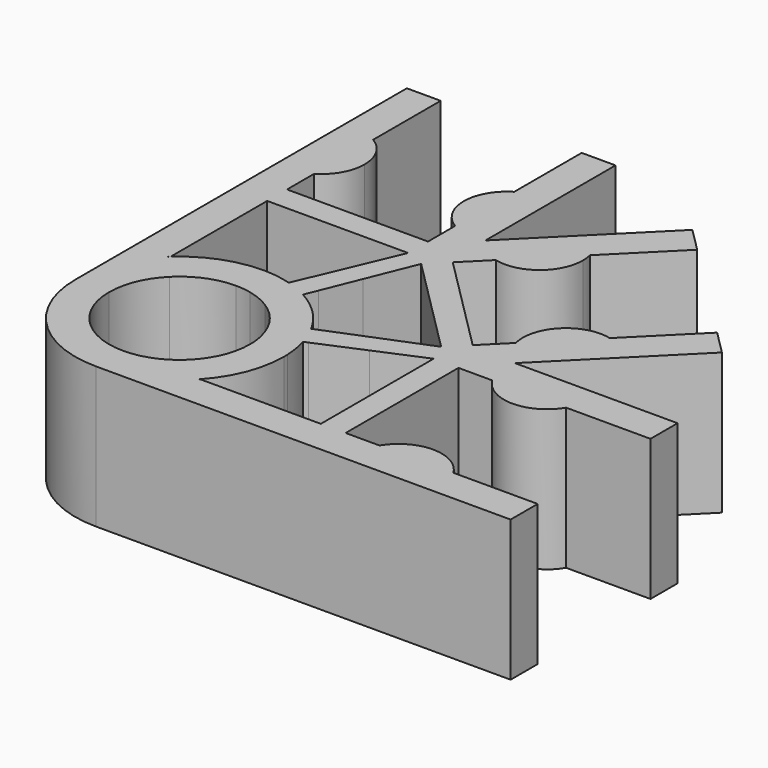
from build123d import *

# Parameters (mm, degrees)
F0_W     = 1.524
F0_H     = 4.2037
F0_W_2   = 4.2037
F0_H_2   = 1.524
F1_DEPTH = 6.35


with BuildPart() as f1:
    # F0 (on Top) → F1 (new body)
    with BuildSketch(Plane.XY):
        with BuildLine():
            Line((-3.175, -18.669), (-3.175, -15.204901849))
            ThreePointArc((-3.175, -15.204901849), (-3.2496165995, -15.2748001007), (-3.3226947648, -15.3463052352))
            ThreePointArc((-3.3226947648, -15.3463052352), (-4.3413099233, -16.8707705513), (-4.699, -18.669))
            ThreePointArc((-4.699, -18.669), (-3.3226947563, -21.9916947733), (2.39e-08, -23.368))
            ThreePointArc((2.39e-08, -23.368), (1.7982294597, -23.0103099187), (3.3226947648, -21.9916947648))
            ThreePointArc((3.3226947648, -21.9916947648), (3.3941998993, -21.9186165995), (3.464098151, -21.844))
            Line((3.464098151, -21.844), (0, -21.844))
            ThreePointArc((0, -21.844), (-2.2450640303, -20.9140640303), (-3.175, -18.669))
        make_face()
        with BuildLine():
            ThreePointArc((0.204423263, -13.9744486764), (0.1022358318, -13.9711123008), (0, -13.97))
            ThreePointArc((0, -13.97), (-1.7033501972, -14.2895937496), (-3.175, -15.204901849))
            Line((-3.175, -15.204901849), (-3.175, -18.669))
            ThreePointArc((-3.175, -18.669), (-2.9333175157, -17.4539801022), (-2.2450640303, -16.4239359697))
            Line((-2.2450640303, -16.4239359697), (0.204423263, -13.9744486764))
        make_face()
        with BuildLine():
            ThreePointArc((1.3099975978, -14.1562949028), (0.7626497547, -14.0323022148), (0.204423263, -13.9744486764))
            Line((0.204423263, -13.9744486764), (-2.2450640303, -16.4239359697))
            ThreePointArc((-2.2450640303, -16.4239359697), (-1.2150198978, -15.7356824843), (0, -15.494))
            Line((0, -15.494), (0.7417000769, -15.494))
            Line((0.7417000769, -15.494), (1.3099975978, -14.1562949028))
        make_face()
        with BuildLine():
            Line((0.7077600368, -15.5738908371), (0.7417000769, -15.494))
            Line((0.7417000769, -15.494), (0, -15.494))
            ThreePointArc((0, -15.494), (0.3561273703, -15.5140359279), (0.7077600368, -15.5738908371))
        make_face()
        with BuildLine():
            Line((1.8842833415, -15.494), (0.7417000769, -15.494))
            Line((0.7417000769, -15.494), (0.7077600368, -15.5738908371))
            ThreePointArc((0.7077600368, -15.5738908371), (1.2150198978, -15.7356824843), (1.6881107561, -15.9799654009))
            Line((1.6881107561, -15.9799654009), (1.8842833415, -15.494))
        make_face()
        with BuildLine():
            ThreePointArc((2.264656191, -14.5517274396), (1.7982294487, -14.3276900767), (1.3099975978, -14.1562949028))
            Line((1.3099975978, -14.1562949028), (0.7417000769, -15.494))
            Line((0.7417000769, -15.494), (1.8842833415, -15.494))
            Line((1.8842833415, -15.494), (2.264656191, -14.5517274396))
        make_face()
        with BuildLine():
            Line((3.175, -15.494), (3.175, -15.204901849))
            ThreePointArc((3.175, -15.204901849), (2.739365633, -14.8510847405), (2.264656191, -14.5517274396))
            Line((2.264656191, -14.5517274396), (1.8842833415, -15.494))
            Line((1.8842833415, -15.494), (3.175, -15.494))
        make_face()
        with BuildLine():
            Line((3.175, -16.7847166585), (3.175, -15.494))
            Line((3.175, -15.494), (1.8842833415, -15.494))
            Line((1.8842833415, -15.494), (1.6881107561, -15.9799654009))
            ThreePointArc((1.6881107561, -15.9799654009), (2.2450640303, -16.4239359697), (2.6890345991, -16.9808892439))
            Line((2.6890345991, -16.9808892439), (3.175, -16.7847166585))
        make_face()
        with BuildLine():
            ThreePointArc((4.1172725604, -16.404343809), (3.8179152595, -15.929634367), (3.464098151, -15.494))
            Line((3.464098151, -15.494), (3.175, -15.494))
            Line((3.175, -15.494), (3.175, -16.7847166585))
            Line((3.175, -16.7847166585), (4.1172725604, -16.404343809))
        make_face()
        with BuildLine():
            Line((3.175, -17.9272999231), (3.175, -16.7847166585))
            Line((3.175, -16.7847166585), (2.6890345991, -16.9808892439))
            ThreePointArc((2.6890345991, -16.9808892439), (2.9333175157, -17.4539801022), (3.0951091629, -17.9612399632))
            Line((3.0951091629, -17.9612399632), (3.175, -17.9272999231))
        make_face()
        with BuildLine():
            ThreePointArc((4.5127050972, -17.3590024022), (4.3413099233, -16.8707705513), (4.1172725604, -16.404343809))
            Line((4.1172725604, -16.404343809), (3.175, -16.7847166585))
            Line((3.175, -16.7847166585), (3.175, -17.9272999231))
            Line((3.175, -17.9272999231), (4.5127050972, -17.3590024022))
        make_face()
        with BuildLine():
            ThreePointArc((3.464098151, -15.494), (3.3226947648, -15.3463052352), (3.175, -15.204901849))
            Line((3.175, -15.204901849), (3.175, -15.494))
            Line((3.175, -15.494), (3.464098151, -15.494))
        make_face()
        with BuildLine():
            ThreePointArc((3.175, -18.669), (2.9333175157, -19.8840198978), (2.2450640303, -20.9140640303))
            Line((2.2450640303, -20.9140640303), (4.6945513236, -18.464576737))
            ThreePointArc((4.6945513236, -18.464576737), (4.6366977852, -17.9063502453), (4.5127050972, -17.3590024022))
            Line((4.5127050972, -17.3590024022), (3.175, -17.9272999231))
            Line((3.175, -17.9272999231), (3.175, -18.669))
        make_face()
        with BuildLine():
            ThreePointArc((3.0951091629, -17.9612399632), (3.1549640721, -18.3128726297), (3.175, -18.669))
            Line((3.175, -18.669), (3.175, -17.9272999231))
            Line((3.175, -17.9272999231), (3.0951091629, -17.9612399632))
        make_face()
        with BuildLine():
            ThreePointArc((2.2450640303, -20.9140640303), (1.2150198978, -21.6023175157), (0, -21.844))
            Line((0, -21.844), (3.464098151, -21.844))
            ThreePointArc((3.464098151, -21.844), (4.3794062504, -20.3723501972), (4.699, -18.669))
            ThreePointArc((4.699, -18.669), (4.6978876992, -18.5667641682), (4.6945513236, -18.464576737))
            Line((4.6945513236, -18.464576737), (2.2450640303, -20.9140640303))
        make_face()
        with BuildLine():
            Line((-3.3226947648, -15.3463052352), (-4.699, -16.7226104704))
            Line((-4.699, -16.7226104704), (-4.699, -18.669))
            ThreePointArc((-4.699, -18.669), (-4.3413099233, -16.8707705513), (-3.3226947648, -15.3463052352))
        make_face()
        Polygon((-3.175, -15.1986104704), (-3.175, -13.97), (-4.699, -13.97), (-4.699, -16.7226104704), (-3.3226947648, -15.3463052352), align=None)
        with Locations((-3.937, -11.86815)):
            Rectangle(F0_W, F0_H)
        with BuildLine():
            Line((-3.175, -8.6487), (-3.175, -7.1247))
            ThreePointArc((-3.175, -7.1247), (-3.9155835913, -7.3857334796), (-4.699, -7.3322426969))
            Line((-4.699, -7.3322426969), (-4.699, -9.7663))
            Line((-4.699, -9.7663), (-3.175, -9.7663))
            Line((-3.175, -9.7663), (-3.175, -8.6487))
        make_face()
        with BuildLine():
            Line((-3.175, -7.1247), (-3.175, -3.7973))
            ThreePointArc((-3.175, -3.7973), (-3.9155835913, -3.5362665204), (-4.699, -3.5897573031))
            Line((-4.699, -3.5897573031), (-4.699, -7.3322426969))
            ThreePointArc((-4.699, -7.3322426969), (-3.9155835913, -7.3857334796), (-3.175, -7.1247))
        make_face()
        with BuildLine():
            Line((-3.175, -3.7973), (-3.175, 0))
            Line((-3.175, 0), (-4.699, 0))
            Line((-4.699, 0), (-4.699, -3.5897573031))
            ThreePointArc((-4.699, -3.5897573031), (-3.9155835913, -3.5362665204), (-3.175, -3.7973))
        make_face()
        with BuildLine():
            ThreePointArc((-2.2352, -5.461), (-2.4863911938, -4.5056045675), (-3.175, -3.7973))
            Line((-3.175, -3.7973), (-3.175, -7.1247))
            ThreePointArc((-3.175, -7.1247), (-2.4863911938, -6.4163954325), (-2.2352, -5.461))
        make_face()
        with BuildLine():
            Line((4.699, 0), (3.175, 0))
            Line((3.175, 0), (3.175, -3.7973))
            ThreePointArc((3.175, -3.7973), (3.9155835913, -3.5362665204), (4.699, -3.5897573031))
            Line((4.699, -3.5897573031), (4.699, 0))
        make_face()
        with BuildLine():
            ThreePointArc((4.699, -3.5897573031), (3.9155835913, -3.5362665204), (3.175, -3.7973))
            Line((3.175, -3.7973), (3.175, -7.1247))
            ThreePointArc((3.175, -7.1247), (3.9101706223, -7.3849885703), (4.6884647047, -7.3351457657))
            Line((4.6884647047, -7.3351457657), (4.6936032009, -7.3300072695))
            ThreePointArc((4.6936032009, -7.3300072695), (4.4428952043, -6.3699901333), (4.699, -5.4113985962))
            Line((4.699, -5.4113985962), (4.699, -3.5897573031))
        make_face()
        with BuildLine():
            Line((3.175, -7.1247), (3.175, -3.7973))
            ThreePointArc((3.175, -3.7973), (2.4863911937, -4.5056045676), (2.2352, -5.4610000002))
            ThreePointArc((2.2352, -5.4610000002), (2.4863911938, -6.4163954326), (3.175, -7.1247))
        make_face()
        with BuildLine():
            Line((4.699, -7.3246104704), (4.699, -5.4113985962))
            ThreePointArc((4.699, -5.4113985962), (4.4428952043, -6.3699901333), (4.6936032009, -7.3300072695))
            Line((4.6936032009, -7.3300072695), (4.699, -7.3246104704))
        make_face()
        with BuildLine():
            ThreePointArc((4.6884647047, -7.3351457657), (3.9101706223, -7.3849885703), (3.175, -7.1247))
            Line((3.175, -7.1247), (3.175, -8.6487))
            Line((3.175, -8.6487), (3.175, -8.8486104704))
            Line((3.175, -8.8486104704), (4.6884647047, -7.3351457657))
        make_face()
        Polygon((3.6876190817, -9.7663), (3.175, -9.2536809183), (3.175, -9.7663), align=None)
        Polygon((3.6876190817, -9.7663), (3.175, -9.7663), (3.175, -11.0038719395), (4.0500955106, -10.1287764289), align=None)
        Polygon((4.0500955106, -10.1287764289), (3.175, -11.0038719395), (3.175, -12.2965927924), align=None)
        with BuildLine():
            Line((9.8782817332, -2.1453287372), (7.3399400013, -4.6836704691))
            ThreePointArc((7.3399400013, -4.6836704691), (7.9317227516, -5.199805829), (8.2708158875, -5.908056052))
            Line((8.2708158875, -5.908056052), (10.9559124677, -3.2229594718))
            Line((10.9559124677, -3.2229594718), (9.8782817332, -2.1453287372))
        make_face()
        with BuildLine():
            ThreePointArc((8.2708158875, -5.908056052), (7.9317227516, -5.199805829), (7.3399400013, -4.6836704691))
            Line((7.3399400013, -4.6836704691), (6.0518450901, -5.9717653803))
            ThreePointArc((6.0518450901, -5.9717653803), (5.5551119515, -6.8306853943), (4.699, -7.3322426969))
            Line((4.699, -7.3322426969), (4.699, -7.339509628))
            ThreePointArc((4.699, -7.339509628), (5.2140928383, -7.9250908364), (5.9179887838, -8.2608831557))
            Line((5.9179887838, -8.2608831557), (8.2708158875, -5.908056052))
        make_face()
        with BuildLine():
            ThreePointArc((8.3278861682, -6.3754541121), (8.3135658123, -6.1400194271), (8.2708158875, -5.908056052))
            Line((8.2708158875, -5.908056052), (5.9179887838, -8.2608831557))
            ThreePointArc((5.9179887838, -8.2608831557), (7.5823378055, -7.9053599983), (8.3278861682, -6.3754541121))
        make_face()
        with BuildLine():
            Line((16.5236712628, -8.7907182668), (15.4460405282, -7.7130875323))
            Line((15.4460405282, -7.7130875323), (12.760943948, -10.3981841125))
            ThreePointArc((12.760943948, -10.3981841125), (13.469194171, -10.7372772484), (13.9853295309, -11.3290599987))
            Line((13.9853295309, -11.3290599987), (16.5236712628, -8.7907182668))
        make_face()
        with BuildLine():
            ThreePointArc((13.9853295309, -11.3290599987), (13.469194171, -10.7372772484), (12.760943948, -10.3981841125))
            Line((12.760943948, -10.3981841125), (10.4081168443, -12.7510112162))
            ThreePointArc((10.4081168443, -12.7510112162), (10.7439091636, -13.4549071617), (11.329490372, -13.97))
            Line((11.329490372, -13.97), (11.3367573031, -13.97))
            ThreePointArc((11.3367573031, -13.97), (11.8383146057, -13.1138880485), (12.6972346197, -12.6171549099))
            Line((12.6972346197, -12.6171549099), (13.9853295309, -11.3290599987))
        make_face()
        with BuildLine():
            Line((10.4081168443, -12.7510112162), (12.760943948, -10.3981841125))
            ThreePointArc((12.760943948, -10.3981841125), (10.9199914432, -10.9100587114), (10.4081168443, -12.7510112162))
        make_face()
        with BuildLine():
            ThreePointArc((5.9179887838, -8.2608831557), (5.2140928383, -7.9250908364), (4.699, -7.339509628))
            Line((4.699, -7.339509628), (4.699, -9.4798719395))
            Line((4.699, -9.4798719395), (4.8403580493, -9.3385138902))
            Line((4.8403580493, -9.3385138902), (5.9179887838, -8.2608831557))
        make_face()
        with BuildLine():
            Line((6.0518450901, -5.9717653803), (4.699, -7.3246104704))
            Line((4.699, -7.3246104704), (4.699, -7.3322426969))
            ThreePointArc((4.699, -7.3322426969), (5.5551119515, -6.8306853943), (6.0518450901, -5.9717653803))
        make_face()
        with BuildLine():
            Line((11.3443895296, -13.97), (12.6972346197, -12.6171549099))
            ThreePointArc((12.6972346197, -12.6171549099), (11.8383146057, -13.1138880485), (11.3367573031, -13.97))
            Line((11.3367573031, -13.97), (11.3443895296, -13.97))
        make_face()
        with BuildLine():
            Line((14.8717, -15.494), (11.5443, -15.494))
            ThreePointArc((11.5443, -15.494), (13.208, -16.4338), (14.8717, -15.494))
        make_face()
        with BuildLine():
            ThreePointArc((13.2576014038, -13.97), (12.2990098667, -14.2261047957), (11.3389927305, -13.9753967991))
            Line((11.3389927305, -13.9753967991), (11.3338542343, -13.9805352953))
            ThreePointArc((11.3338542343, -13.9805352953), (11.2840114297, -14.7588293777), (11.5443, -15.494))
            Line((11.5443, -15.494), (14.8717, -15.494))
            ThreePointArc((14.8717, -15.494), (15.0795020373, -15.0116695348), (15.1504993243, -14.4913006757))
            ThreePointArc((15.1504993243, -14.4913006757), (15.1326027251, -14.2282265885), (15.0792426969, -13.97))
            Line((15.0792426969, -13.97), (13.2576014038, -13.97))
        make_face()
        with BuildLine():
            Line((18.669, -13.97), (15.0792426969, -13.97))
            ThreePointArc((15.0792426969, -13.97), (15.1326027251, -14.2282265885), (15.1504993243, -14.4913006757))
            ThreePointArc((15.1504993243, -14.4913006757), (15.0795020373, -15.0116695348), (14.8717, -15.494))
            Line((14.8717, -15.494), (18.669, -15.494))
            Line((18.669, -15.494), (18.669, -13.97))
        make_face()
        with BuildLine():
            ThreePointArc((11.5443, -15.494), (11.2840114297, -14.7588293777), (11.3338542343, -13.9805352953))
            Line((11.3338542343, -13.9805352953), (9.8203895296, -15.494))
            Line((9.8203895296, -15.494), (10.0203, -15.494))
            Line((10.0203, -15.494), (11.5443, -15.494))
        make_face()
        with BuildLine():
            ThreePointArc((14.8717, -21.844), (13.208, -20.9042), (11.5443, -21.844))
            Line((11.5443, -21.844), (14.8717, -21.844))
        make_face()
        with BuildLine():
            Line((8.9027, -21.844), (8.9027, -23.368))
            Line((8.9027, -23.368), (11.3367573031, -23.368))
            ThreePointArc((11.3367573031, -23.368), (11.2832665204, -22.5845835913), (11.5443, -21.844))
            Line((11.5443, -21.844), (10.0203, -21.844))
            Line((10.0203, -21.844), (8.9027, -21.844))
        make_face()
        with BuildLine():
            ThreePointArc((11.5443, -21.844), (11.2832665204, -22.5845835913), (11.3367573031, -23.368))
            Line((11.3367573031, -23.368), (15.0792426969, -23.368))
            ThreePointArc((15.0792426969, -23.368), (15.1326027251, -23.1097734115), (15.1504993243, -22.8466993243))
            ThreePointArc((15.1504993243, -22.8466993243), (15.0795020373, -22.3263304652), (14.8717, -21.844))
            Line((14.8717, -21.844), (11.5443, -21.844))
        make_face()
        with BuildLine():
            ThreePointArc((15.1504993243, -22.8466993243), (15.1326027251, -23.1097734115), (15.0792426969, -23.368))
            Line((15.0792426969, -23.368), (18.669, -23.368))
            Line((18.669, -23.368), (18.669, -21.844))
            Line((18.669, -21.844), (14.8717, -21.844))
            ThreePointArc((14.8717, -21.844), (15.0795020373, -22.3263304652), (15.1504993243, -22.8466993243))
        make_face()
        with BuildLine():
            ThreePointArc((3.3226947648, -21.9916947648), (1.7982294597, -23.0103099187), (2.39e-08, -23.368))
            Line((2.39e-08, -23.368), (1.9463895296, -23.368))
            Line((1.9463895296, -23.368), (3.3226947648, -21.9916947648))
        make_face()
        Polygon((3.3226947648, -21.9916947648), (1.9463895296, -23.368), (4.699, -23.368), (4.699, -21.844), (3.4703895296, -21.844), align=None)
        with Locations((6.80085, -22.606)):
            Rectangle(F0_W_2, F0_H_2)
        with BuildLine():
            ThreePointArc((4.6954279578, -7.3332341432), (4.6919472195, -7.3341931901), (4.6884647047, -7.3351457657))
            Line((4.6884647047, -7.3351457657), (3.175, -8.8486104704))
            Line((3.175, -8.8486104704), (3.175, -9.2536809183))
            Line((3.175, -9.2536809183), (3.6876190817, -9.7663))
            Line((3.6876190817, -9.7663), (4.4125719395, -9.7663))
            Line((4.4125719395, -9.7663), (4.699, -9.4798719395))
            Line((4.699, -9.4798719395), (4.699, -7.339509628))
            ThreePointArc((4.699, -7.339509628), (4.6972110629, -7.3363735454), (4.6954279578, -7.3332341432))
        make_face()
        Polygon((4.4125719395, -9.7663), (3.6876190817, -9.7663), (4.0500955106, -10.1287764289), align=None)
        Polygon((3.175, -11.0038719395), (3.175, -9.7663), (2.2609083187, -11.9179636207), align=None)
        Polygon((3.175, -12.2965927924), (3.175, -11.0038719395), (2.2609083187, -11.9179636207), (1.3891412982, -13.97), (2.4994856163, -13.97), align=None)
        with BuildLine():
            Line((2.4994856163, -13.97), (1.3891412982, -13.97))
            Line((1.3891412982, -13.97), (1.3099975978, -14.1562949028))
            ThreePointArc((1.3099975978, -14.1562949028), (1.7982294487, -14.3276900767), (2.264656191, -14.5517274396))
            Line((2.264656191, -14.5517274396), (2.4994856163, -13.97))
        make_face()
        with BuildLine():
            Line((10.4081168443, -12.7510112162), (9.3304861098, -13.8286419507))
            Line((9.3304861098, -13.8286419507), (9.1891280605, -13.97))
            Line((9.1891280605, -13.97), (11.329490372, -13.97))
            ThreePointArc((11.329490372, -13.97), (10.7439091636, -13.4549071617), (10.4081168443, -12.7510112162))
        make_face()
        with BuildLine():
            Line((11.329490372, -13.97), (9.1891280605, -13.97))
            Line((9.1891280605, -13.97), (8.9027, -14.2564280605))
            Line((8.9027, -14.2564280605), (8.9027, -14.9813809183))
            Line((8.9027, -14.9813809183), (9.4153190817, -15.494))
            Line((9.4153190817, -15.494), (9.8203895296, -15.494))
            Line((9.8203895296, -15.494), (11.3338542343, -13.9805352953))
            ThreePointArc((11.3338542343, -13.9805352953), (11.3348068099, -13.9770527805), (11.3357658568, -13.9735720422))
            ThreePointArc((11.3357658568, -13.9735720422), (11.3326264546, -13.9717889371), (11.329490372, -13.97))
        make_face()
        with BuildLine():
            Line((13.2576014038, -13.97), (11.3443895296, -13.97))
            Line((11.3443895296, -13.97), (11.3389927305, -13.9753967991))
            ThreePointArc((11.3389927305, -13.9753967991), (12.2990098667, -14.2261047957), (13.2576014038, -13.97))
        make_face()
        Polygon((9.4153190817, -15.494), (8.9027, -14.9813809183), (8.9027, -15.494), align=None)
        Polygon((8.9027, -14.2564280605), (8.5402235711, -14.6189044894), (8.9027, -14.9813809183), align=None)
        Polygon((8.9027, -14.9813809183), (8.5402235711, -14.6189044894), (7.6651280605, -15.494), (8.9027, -15.494), align=None)
        Polygon((7.6651280605, -15.494), (8.5402235711, -14.6189044894), (6.3724072076, -15.494), align=None)
        Polygon((8.9027, -15.494), (7.6651280605, -15.494), (6.7510363793, -16.4080916813), align=None)
        Polygon((6.3724072076, -15.494), (4.699, -16.1695143837), (4.699, -17.2798587018), (6.7510363793, -16.4080916813), (7.6651280605, -15.494), align=None)
        with BuildLine():
            Line((4.699, -17.2798587018), (4.699, -16.1695143837))
            Line((4.699, -16.1695143837), (4.1172725604, -16.404343809))
            ThreePointArc((4.1172725604, -16.404343809), (4.3413099233, -16.8707705513), (4.5127050972, -17.3590024022))
            Line((4.5127050972, -17.3590024022), (4.699, -17.2798587018))
        make_face()
        Polygon((2.9724647761, -9.0511456943), (2.2573104704, -9.7663), (3.175, -9.7663), (3.175, -9.2536809183), align=None)
        Polygon((3.175, -9.2536809183), (3.175, -8.8486104704), (2.9724647761, -9.0511456943), align=None)
        Polygon((2.2352, -8.6487), (0, -8.6487), (-2.2352, -8.6487), (-3.175, -8.6487), (-3.175, -9.7663), (2.2573104704, -9.7663), (2.9724647761, -9.0511456943), (3.175, -8.8486104704), (3.175, -8.6487), align=None)
        Polygon((4.699, -9.7663), (4.699, -9.4798719395), (4.4125719395, -9.7663), align=None)
        Polygon((4.699, -9.7663), (4.4125719395, -9.7663), (4.0500955106, -10.1287764289), (4.699, -10.7776809183), align=None)
        Polygon((4.8403580493, -9.3385138902), (4.699, -9.4798719395), (4.699, -9.7663), (4.699, -10.7776809183), (7.8913190817, -13.97), (8.9027, -13.97), (9.1891280605, -13.97), (9.3304861098, -13.8286419507), align=None)
        Polygon((8.9027, -13.97), (7.8913190817, -13.97), (8.5402235711, -14.6189044894), (8.9027, -14.2564280605), align=None)
        Polygon((8.9027, -14.2564280605), (9.1891280605, -13.97), (8.9027, -13.97), align=None)
        Polygon((8.9027, -16.4116895296), (8.9027, -21.844), (10.0203, -21.844), (10.0203, -15.494), (9.8203895296, -15.494), (9.6178543057, -15.6965352239), align=None)
        Polygon((9.6178543057, -15.6965352239), (9.4153190817, -15.494), (8.9027, -15.494), (8.9027, -16.4116895296), align=None)
        Polygon((9.8203895296, -15.494), (9.4153190817, -15.494), (9.6178543057, -15.6965352239), align=None)
        with BuildLine():
            ThreePointArc((4.699, -7.3322426969), (4.6972142154, -7.3327392722), (4.6954279578, -7.3332341432))
            ThreePointArc((4.6954279578, -7.3332341432), (4.6972110629, -7.3363735454), (4.699, -7.339509628))
            Line((4.699, -7.339509628), (4.699, -7.3322426969))
        make_face()
        with BuildLine():
            Line((4.6936032009, -7.3300072695), (4.6884647047, -7.3351457657))
            ThreePointArc((4.6884647047, -7.3351457657), (4.6919472195, -7.3341931901), (4.6954279578, -7.3332341432))
            ThreePointArc((4.6954279578, -7.3332341432), (4.6945148096, -7.3316211417), (4.6936032009, -7.3300072695))
        make_face()
        with BuildLine():
            ThreePointArc((4.6936032009, -7.3300072695), (4.6945148096, -7.3316211417), (4.6954279578, -7.3332341432))
            ThreePointArc((4.6954279578, -7.3332341432), (4.6972142154, -7.3327392722), (4.699, -7.3322426969))
            Line((4.699, -7.3322426969), (4.699, -7.3246104704))
            Line((4.699, -7.3246104704), (4.6936032009, -7.3300072695))
        make_face()
        with BuildLine():
            ThreePointArc((11.3389927305, -13.9753967991), (11.3373788583, -13.9744851904), (11.3357658568, -13.9735720422))
            ThreePointArc((11.3357658568, -13.9735720422), (11.3348068099, -13.9770527805), (11.3338542343, -13.9805352953))
            Line((11.3338542343, -13.9805352953), (11.3389927305, -13.9753967991))
        make_face()
        with BuildLine():
            Line((11.3367573031, -13.97), (11.329490372, -13.97))
            ThreePointArc((11.329490372, -13.97), (11.3326264546, -13.9717889371), (11.3357658568, -13.9735720422))
            ThreePointArc((11.3357658568, -13.9735720422), (11.3362607278, -13.9717857846), (11.3367573031, -13.97))
        make_face()
        with BuildLine():
            Line((11.3443895296, -13.97), (11.3367573031, -13.97))
            ThreePointArc((11.3367573031, -13.97), (11.3362607278, -13.9717857846), (11.3357658568, -13.9735720422))
            ThreePointArc((11.3357658568, -13.9735720422), (11.3373788583, -13.9744851904), (11.3389927305, -13.9753967991))
            Line((11.3389927305, -13.9753967991), (11.3443895296, -13.97))
        make_face()
    extrude(amount=F1_DEPTH)


solid = f1.part
